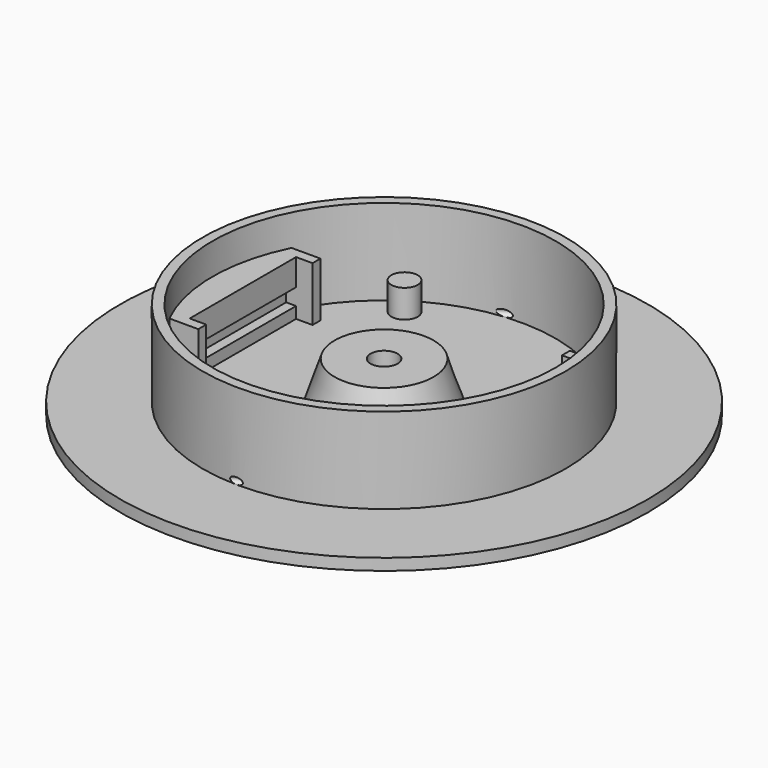
from build123d import *

# Parameters (mm, degrees)
CYLINDER_R            = 80
CYLINDER_DEPTH        = 3.5
CYLINDER001_R         = 55
CYLINDER001_DEPTH     = 29.5
CYLINDER002_R         = 52
CYLINDER002_DEPTH     = 26
PAD_DEPTH             = 20
BOX_W                 = 3
BOX_H                 = 40.3
BOX_DEPTH             = 5
CYLINDER003_R         = 4.1
CYLINDER003_DEPTH     = 15
CYLINDER004_R         = 1
CYLINDER004_DEPTH     = 20
POLARPATTERN_COUNT    = 2
CYLINDER005_R         = 4
CYLINDER005_DEPTH     = 12
POLARPATTERN001_COUNT = 2


with BuildPart() as part:
    # Cylinder → Cylinder (join)
    with BuildSketch(Plane.XY):
        Circle(CYLINDER_R)
    extrude(amount=CYLINDER_DEPTH)

    # Cylinder001 → Cylinder001 (join)
    with BuildSketch(Plane.XY):
        Circle(CYLINDER001_R)
    extrude(amount=CYLINDER001_DEPTH)

    # Cylinder002 → Cylinder002 (cut)
    with BuildSketch(Plane.XY.offset(3.5)):
        Circle(CYLINDER002_R)
    extrude(amount=CYLINDER002_DEPTH, mode=Mode.SUBTRACT)

    # Sketch009 → Pad (join)
    with BuildSketch(Plane.XY):
        with BuildLine():
            Line((-42.8, 20.15), (-42.8, -20.15))
            Line((-42.8, -20.15), (-37.8, -20.15))
            Line((-37.8, -20.15), (-37.8, -23.15))
            Line((-37.8, -23.15), (-46.562619, -23.15))
            ThreePointArc((-46.562619, 23.15), (-52, 0), (-46.562619, -23.15))
            Line((-37.8, 23.15), (-46.562619, 23.15))
            Line((-37.8, 20.15), (-37.8, 23.15))
            Line((-42.8, 20.15), (-37.8, 20.15))
        make_face()
    pad = extrude(amount=PAD_DEPTH)

    # Mirrored: Pad across YZ
    add(pad.mirror(Plane.YZ))

    # Box → Box (cut)
    with BuildSketch(Plane(origin=(-45.8, -20.15, 6.95), x_dir=(1, 0, 0), z_dir=(0, 0, 1))):
        with Locations((1.5, 20.15)):
            Rectangle(BOX_W, BOX_H)
    box = extrude(amount=BOX_DEPTH, mode=Mode.SUBTRACT)

    # Mirrored001: Box across YZ
    add(box.mirror(Plane.YZ), mode=Mode.SUBTRACT)

    # Cone → Cone (revolve)
    with BuildSketch(Plane.XZ):
        Polygon((0, 0), (20, 0), (15, 15), (0, 15), align=None)
    revolve(axis=Axis((0, 0, 0), (0, 0, 1)))

    # Cylinder003 → Cylinder003 (cut)
    with BuildSketch(Plane.XY):
        Circle(CYLINDER003_R)
    extrude(amount=CYLINDER003_DEPTH, mode=Mode.SUBTRACT)

    # Cylinder004 → Cylinder004 (cut)
    with BuildSketch(Plane(origin=(6, 58, 4.5), x_dir=(0.5, -0.866025, 0), z_dir=(-0.866025, -0.5, 0))):
        Circle(CYLINDER004_R)
    cylinder004 = extrude(amount=CYLINDER004_DEPTH, mode=Mode.SUBTRACT)

    # PolarPattern: Cylinder004 ×2 about axis
    polarpattern_axis = Axis((0, 0, 0), (0, 0, 1))
    for i in range(1, POLARPATTERN_COUNT):
        add(cylinder004.rotate(polarpattern_axis, i * 360 / POLARPATTERN_COUNT), mode=Mode.SUBTRACT)

    # Cylinder005 → Cylinder005 (join)
    with BuildSketch(Plane(origin=(-25, 39, 0), x_dir=(1, 0, 0), z_dir=(0, 0, 1))):
        Circle(CYLINDER005_R)
    cylinder005 = extrude(amount=CYLINDER005_DEPTH)

    # PolarPattern001: Cylinder005 ×2 about axis
    polarpattern001_axis = Axis((0, 0, 0), (0, 0, 1))
    for i in range(1, POLARPATTERN001_COUNT):
        add(cylinder005.rotate(polarpattern001_axis, i * 360 / POLARPATTERN001_COUNT))


solid = part.part
